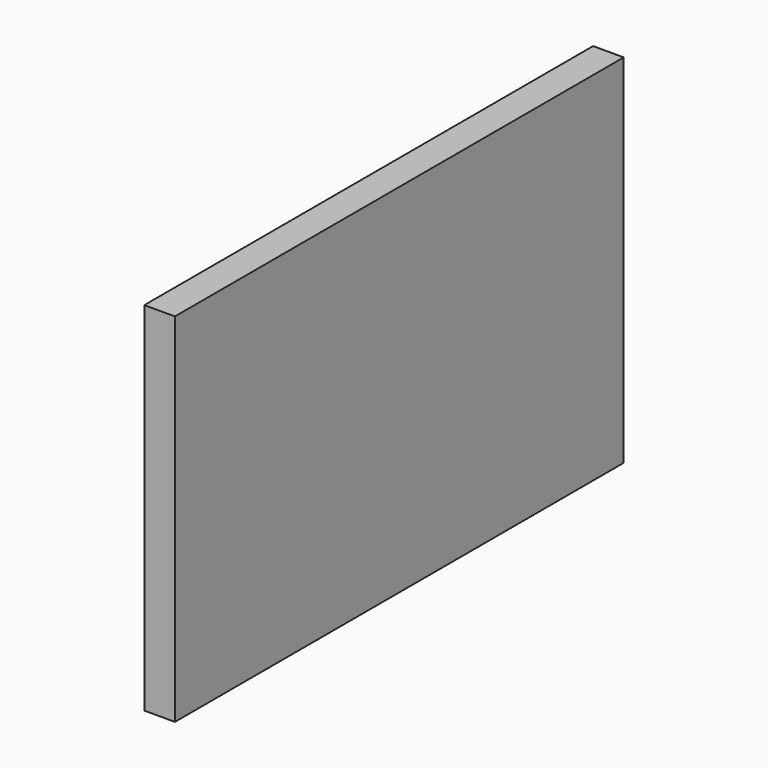
from build123d import *

# Parameters (mm, degrees)
SKETCH_W  = 550
SKETCH_H  = 350
PAD_DEPTH = 30


with BuildPart() as part:
    # Sketch → Pad (new body)
    with BuildSketch(Plane.YZ):
        with Locations((275, 175)):
            Rectangle(SKETCH_W, SKETCH_H)
    extrude(amount=PAD_DEPTH)


solid = part.part
